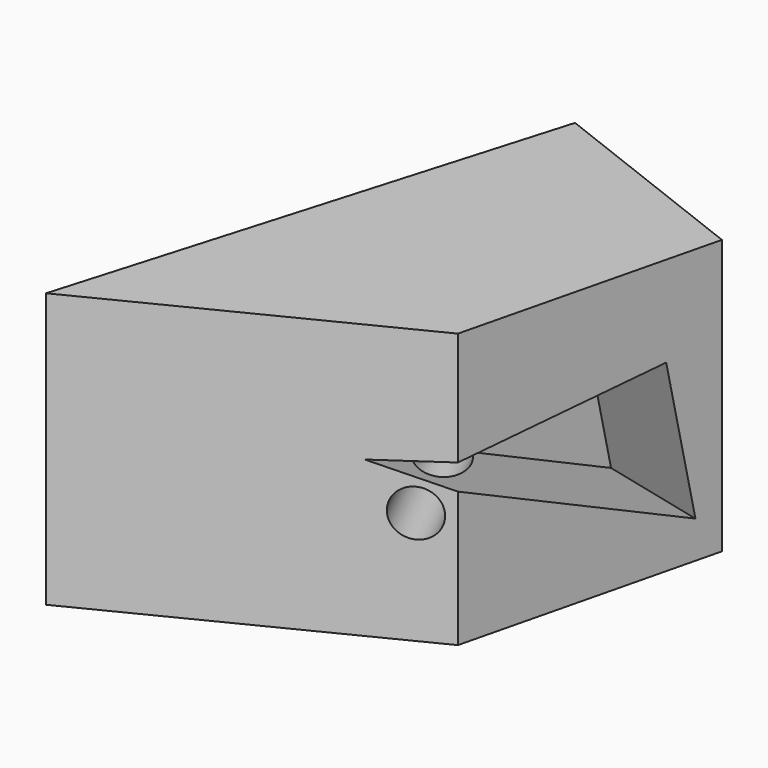
from build123d import *

# Parameters (mm, degrees)
F1_DEPTH = 63.4248778224
F2_R     = 5.3887909161
F3_DEPTH = 102.1241396666
F6_DEPTH = 25


with BuildPart() as f1:
    # F0 (on Top) → F1 (new body)
    with BuildSketch(Plane.XY):
        Polygon((-32.9633839428, -48.3821220696), (34.9777191877, -14.2513811588), (49.3006780744, 44.1745221615), (0, 63.3342713118), align=None)
    extrude(amount=F1_DEPTH)

    # F2 (on face) → F3 (cut)
    with BuildSketch(Plane(origin=(12.7649742408, -25.4101261271, 0), x_dir=(0.8935828585, 0.4488982902, 0), z_dir=(0.4488982902, -0.8935828585, 0))):
        with Locations((17.1215422451, 26.0495916009)):
            Circle(F2_R)
    extrude(amount=-F3_DEPTH, mode=Mode.SUBTRACT)

    # F5 (on face) → F6 (cut)
    with BuildSketch(Plane(origin=(36.2904519106, -8.8965103003, 0), x_dir=(0.2380972915, 0.9712413087, 0), z_dir=(0.9712413087, -0.2380972915, 0))):
        Polygon((48.6116707325, 8.5855266079), (41.9424623251, 42.4769595265), (-16.6801717132, 35.93596071), align=None)
    extrude(amount=-F6_DEPTH, mode=Mode.SUBTRACT)


solid = f1.part
